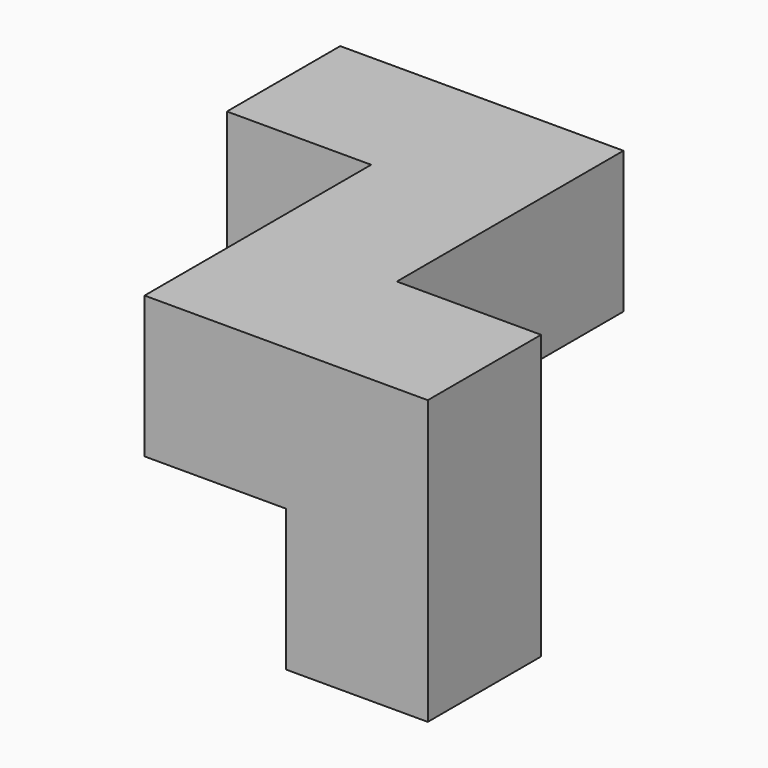
from build123d import *

# Parameters (mm, degrees)
F1_DEPTH = 19.05
F2_W     = 19.05
F2_H     = 19.05
F3_DEPTH = 19.05


with BuildPart() as f1:
    # F0 (on Top) → F1 (new body)
    with BuildSketch(Plane.XY):
        Polygon((0, 19.05), (0, 0), (19.400613, 0), (19.400613, -38.1), (57.500613, -38.1), (57.500613, -19.05), (38.1, -19.05), (38.1, 19.05), align=None)
    extrude(amount=F1_DEPTH)

    # F2 (on face) → F3 (join)
    with BuildSketch(Plane(origin=(0, 0, 0), x_dir=(1, 0, 0), z_dir=(0, 0, -1))):
        with Locations((47.975613, 28.575)):
            Rectangle(F2_W, F2_H)
    extrude(amount=F3_DEPTH)


solid = f1.part
